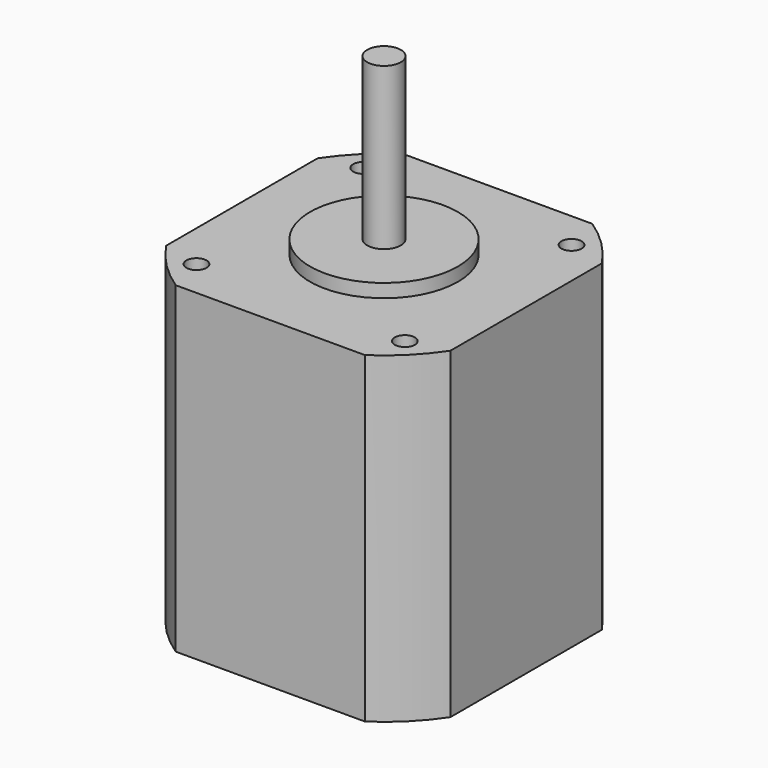
from build123d import *

# Parameters (mm, degrees)
F1_DEPTH = 48
F2_R     = 11
F3_DEPTH = 2
F4_R     = 2.5
F5_DEPTH = 24
F6_R     = 1.5
F7_DEPTH = 4


with BuildPart() as f1:
    # F0 (on Top) → F1 (new body)
    with BuildSketch(Plane.XY):
        with BuildLine():
            ThreePointArc((21.15, 14.078932), (17.965785, 17.965785), (14.078932, 21.15))
            Line((14.078932, 21.15), (-14.078932, 21.15))
            ThreePointArc((-14.078932, 21.15), (-17.965785, 17.965785), (-21.15, 14.078932))
            Line((-21.15, 14.078932), (-21.15, -14.078932))
            ThreePointArc((-21.15, -14.078932), (-17.965785, -17.965785), (-14.078932, -21.15))
            Line((-14.078932, -21.15), (14.078932, -21.15))
            ThreePointArc((14.078932, -21.15), (17.965785, -17.965785), (21.15, -14.078932))
            Line((21.15, -14.078932), (21.15, 14.078932))
        make_face()
    extrude(amount=F1_DEPTH)

    # F2 (on face) → F3 (join)
    with BuildSketch(Plane.XY.offset(48)):
        Circle(F2_R)
    extrude(amount=F3_DEPTH)

    # F4 (on face) → F5 (join)
    with BuildSketch(Plane.XY.offset(50)):
        Circle(F4_R)
    extrude(amount=F5_DEPTH)

    # F6 (on face) → F7 (cut)
    with BuildSketch(Plane.XY.offset(48)):
        with Locations((-15.5, -15.5)):
            Circle(F6_R)
        with Locations((15.5, -15.5)):
            Circle(F6_R)
        with Locations((15.5, 15.5)):
            Circle(F6_R)
        with Locations((-15.5, 15.5)):
            Circle(F6_R)
    extrude(amount=-F7_DEPTH, mode=Mode.SUBTRACT)


solid = f1.part
